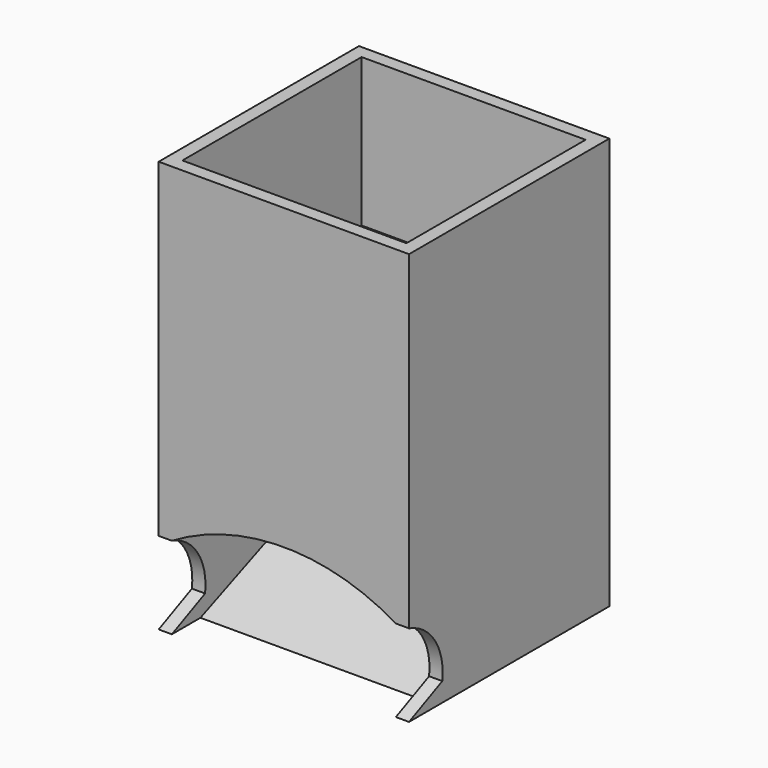
from build123d import *

# Parameters (mm, degrees)
F0_W      = 76
F0_H      = 76
F0_W_2    = 68
F0_H_2    = 68
F1_DEPTH  = 100
F2_W      = 68
F2_H      = 4
F3_DEPTH  = 25
F5_DEPTH  = 72
F7_DEPTH  = 76
F9_DEPTH  = 25
F11_DEPTH = 72


with BuildPart() as f1:
    # F0 (on Top) → F1 (new body)
    with BuildSketch(Plane.XY):
        with Locations((-38, 38)):
            Rectangle(F0_W, F0_H)
        with Locations((-38, 38)):
            Rectangle(F0_W_2, F0_H_2, mode=Mode.SUBTRACT)
    extrude(amount=F1_DEPTH)

    # F2 (on face) → F3 (join)
    with BuildSketch(Plane.XY):
        Polygon((-76, 76), (-76, 0), (-72, 0), (-72, 72), (-72, 76), align=None)
        with Locations((-38, 74)):
            Rectangle(F2_W, F2_H)
        Polygon((-4, 76), (-4, 72), (-4, 0), (0, 0), (0, 76), align=None)
    extrude(amount=-F3_DEPTH)

    # F4 (on face) → F5 (join, through all)
    with BuildSketch(Plane(origin=(-76, 0, 0), x_dir=(0, -1, 0), z_dir=(-1, 0, 0))):
        Polygon((-10.85203, -25), (-71.971662, 0), (-76, 0), (-76, -2.726357), (-21.37715, -25), align=None)
    extrude(amount=-F5_DEPTH)

    # F6 (on face) → F7 (cut, through all)
    with BuildSketch(Plane(origin=(-76, 0, 0), x_dir=(0, -1, 0), z_dir=(-1, 0, 0))):
        with BuildLine():
            Line((0, -25), (0, 0))
            ThreePointArc((0, 0), (-9.849808, -7.286393), (-12.617335, -19.221678))
            Line((-12.617335, -19.221678), (0, -25))
        make_face()
    extrude(amount=-F7_DEPTH, mode=Mode.SUBTRACT)

    # F8 (on face) → F9 (cut)
    with BuildSketch(Plane.XZ):
        with BuildLine():
            Line((-72, 0), (-4, 0))
            ThreePointArc((-4, 0), (-38, 9.360839), (-72, 0))
        make_face()
    extrude(amount=-F9_DEPTH, mode=Mode.SUBTRACT)

    # F10 (on face) → F11 (join, through all)
    with BuildSketch(Plane(origin=(-76, 0, 0), x_dir=(0, -1, 0), z_dir=(-1, 0, 0))):
        Polygon((-37.44344, 15.143791), (-37.44344, 11.143791), (0, 25.214639), (0, 29.214639), align=None)
        Polygon((-71.970133, 51.007654), (-40.531019, 36.690459), (-40.531019, 40.690459), (-71.970133, 55.007654), align=None)
    extrude(amount=-F11_DEPTH)


solid = f1.part
